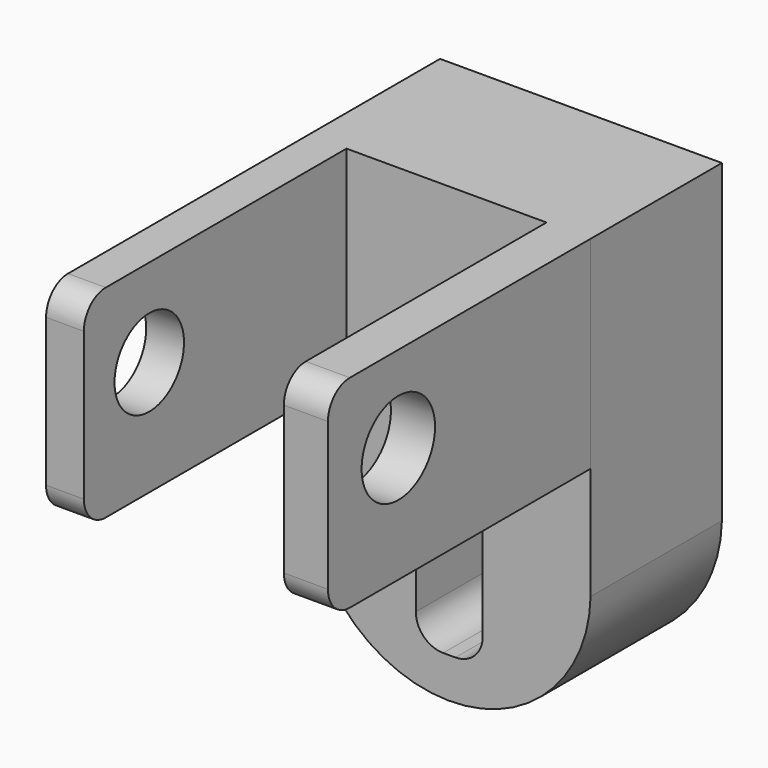
from build123d import *

# Parameters (mm, degrees)
F1_DEPTH = 30
F2_W     = 6.907336
F2_H     = 37
F2_W_2   = 8.058561
F3_DEPTH = 60
F4_R     = 5
F5_R     = 8.388912
F6_DEPTH = 30
F7_R     = 7.936713
F8_DEPTH = 30


with BuildPart() as f1:
    # F0 (on Front) → F1 (new body)
    with BuildSketch(Plane.XZ):
        with BuildLine():
            Line((19.714694, 49.646493), (-31.802535, 49.646493))
            Line((-31.802535, 49.646493), (-31.802535, -7.339047))
            ThreePointArc((-31.802535, -7.339047), (-6.328528, -33.099269), (19.714694, -7.914659))
            Line((19.714694, -7.914659), (19.714694, 49.646493))
        make_face()
        with BuildLine():
            ThreePointArc((-12.231744, 0.324407), (-10.767278, 3.85994), (-7.231744, 5.324407))
            Line((-7.231744, 5.324407), (-5, 5.324407))
            ThreePointArc((-5, 5.324407), (-1.464466, 3.85994), (0, 0.324407))
            Line((0, 0.324407), (0, -20.758615))
            ThreePointArc((0, -20.758615), (-1.464466, -24.294149), (-5, -25.758615))
            Line((-5, -25.758615), (-7.231744, -25.758615))
            ThreePointArc((-7.231744, -25.758615), (-10.767278, -24.294149), (-12.231744, -20.758615))
            Line((-12.231744, -20.758615), (-12.231744, 0.324407))
        make_face(mode=Mode.SUBTRACT)
    extrude(amount=F1_DEPTH)

    # F2 (on face) → F3 (join)
    with BuildSketch(Plane.XZ.offset(30)):
        with Locations((-28.348867, 31.146493)):
            Rectangle(F2_W, F2_H)
        with Locations((15.685413, 31.146493)):
            Rectangle(F2_W_2, F2_H)
    extrude(amount=F3_DEPTH)

    # F4
    f4_edges = [f1.edges().sort_by_distance(p)[0] for p in [
        (15.685413, -90, 49.646493),
        (15.685413, -90, 12.646493),
        (-28.348867, -90, 49.646493),
        (-28.348867, -90, 12.646493),
    ]]
    fillet(f4_edges, radius=F4_R)

    # F5 (on face) → F6 (cut)
    with BuildSketch(Plane.YZ.offset(19.714694)):
        with Locations((-73.927611, 33.851173)):
            Circle(F5_R)
    extrude(amount=-F6_DEPTH, mode=Mode.SUBTRACT)

    # F7 (on face) → F8 (cut)
    with BuildSketch(Plane(origin=(-31.802535, 0, 0), x_dir=(0, -1, 0), z_dir=(-1, 0, 0))):
        with Locations((75.060703, 33.567894)):
            Circle(F7_R)
    extrude(amount=-F8_DEPTH, mode=Mode.SUBTRACT)


solid = f1.part
